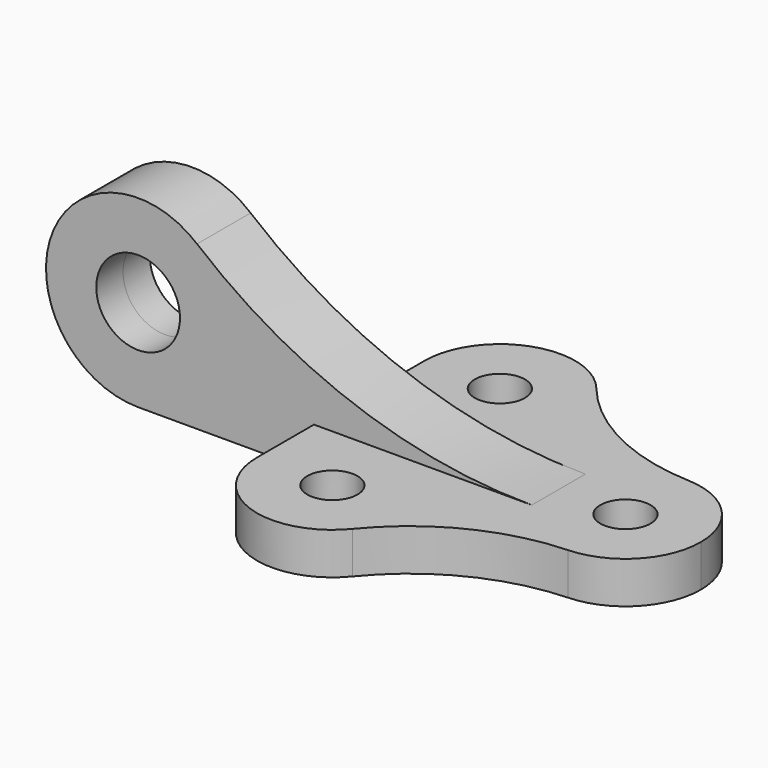
from build123d import *

# Parameters (mm, degrees)
F0_R          = 6
F1_DEPTH      = 10
F2_R          = 10
F3_DEPTH      = 8
F3_DEPTH_BACK = 8


with BuildPart() as f1:
    # F0 (on Top) → F1 (new body)
    with BuildSketch(Plane.XY):
        with BuildLine():
            ThreePointArc((50.720724, 17.985565), (30.362055, 23.224109), (13.956018, 36.367918))
            ThreePointArc((13.956018, 36.367918), (-6.032896, 41.958896), (-18, 25))
            Line((-18, 25), (-18, 0))
            Line((-18, 0), (-18, -25))
            ThreePointArc((-18, -25), (-6.032896, -41.958896), (13.956018, -36.367918))
            ThreePointArc((13.956018, -36.367918), (30.362055, -23.224109), (50.720724, -17.985565))
            ThreePointArc((50.720724, -17.985565), (62.980236, -12.470505), (68, 0))
            ThreePointArc((68, 0), (62.980236, 12.470505), (50.720724, 17.985565))
        make_face()
        with Locations((0, -25)):
            Circle(F0_R, mode=Mode.SUBTRACT)
        with Locations((0, 25)):
            Circle(F0_R, mode=Mode.SUBTRACT)
        with BuildLine():
            ThreePointArc((44, 0), (50, 6), (56, 0))
            ThreePointArc((56, 0), (50, -6), (44, 0))
        make_face(mode=Mode.SUBTRACT)
    extrude(amount=F1_DEPTH)

    # F2 (on Front) → F3 (join, two sides)
    with BuildSketch(Plane.XZ) as f3_sk:
        with BuildLine():
            Line((-60, 0), (0, 0))
            Line((0, 0), (34.021274, 0))
            Line((34.021274, 0), (34.021274, 10))
            ThreePointArc((34.021274, 10), (-8.487228, 17.449895), (-45.928789, 38.911565))
            ThreePointArc((-45.928789, 38.911565), (-80.688818, 29.481496), (-60, 0))
        make_face()
        with Locations((-60, 22)):
            Circle(F2_R, mode=Mode.SUBTRACT)
    extrude(amount=F3_DEPTH)
    extrude(f3_sk.sketch, amount=-F3_DEPTH_BACK)


solid = f1.part
